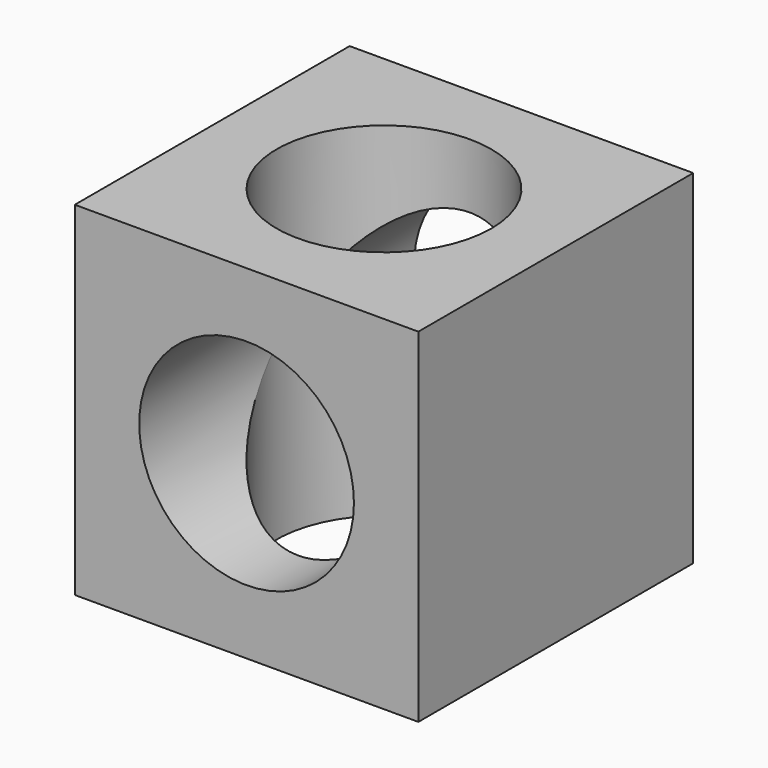
from build123d import *

# Parameters (mm, degrees)
F0_W     = 40
F0_H     = 40
F0_R     = 12.5
F1_DEPTH = 40
F2_R     = 12.5
F3_DEPTH = 40.001


with BuildPart() as f1:
    # F0 (on Top) → F1 (new body)
    with BuildSketch(Plane.XY):
        Rectangle(F0_W, F0_H)
        Circle(F0_R, mode=Mode.SUBTRACT)
    extrude(amount=F1_DEPTH)

    # F2 (on face) → F3 (cut, through all)
    with BuildSketch(Plane.XZ.offset(20)):
        with Locations((0, 20)):
            Circle(F2_R)
    extrude(amount=-F3_DEPTH, mode=Mode.SUBTRACT)


solid = f1.part
